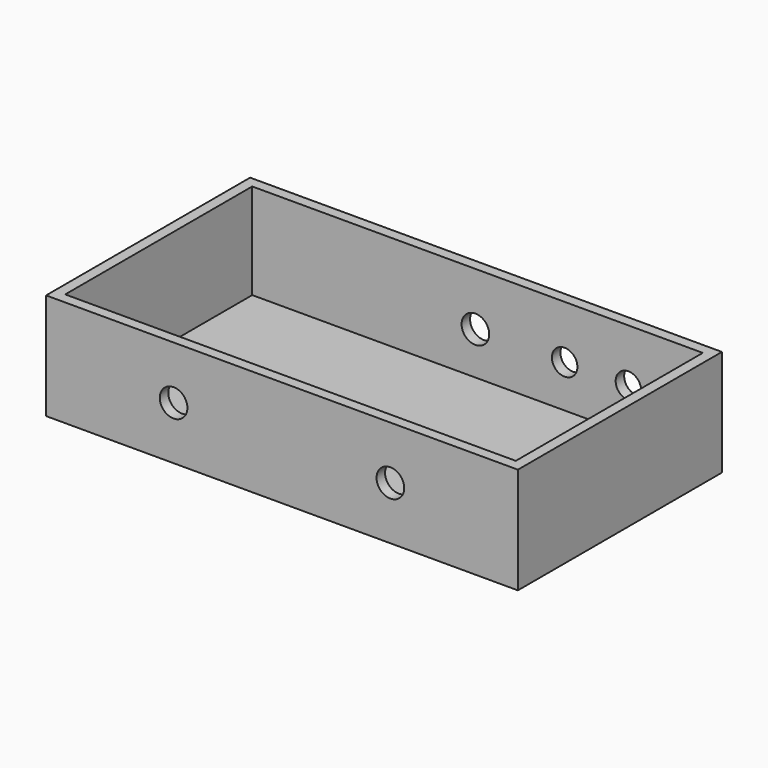
from build123d import *

# Parameters (mm, degrees)
F0_W     = 111
F0_H     = 60
F1_DEPTH = 25
F2_T     = -2.5
F3_R     = 3.25
F4_DEPTH = 30
F5_R     = 3.25
F5_R_2   = 3
F6_DEPTH = 30


with BuildPart() as f1:
    # F0 (on Top) → F1 (new body)
    with BuildSketch(Plane.XY):
        Rectangle(F0_W, F0_H)
    extrude(amount=F1_DEPTH)

    # F2
    f2_openings = [f1.faces().sort_by_distance(p)[0] for p in [
        (0, 0, 25),
    ]]
    offset(amount=F2_T, openings=f2_openings)

    # F3 (on Front) → F4 (cut, through all)
    with BuildSketch(Plane.XZ):
        with Locations((-25.5, 12.5)):
            Circle(F3_R)
        with Locations((25.5, 12.5)):
            Circle(F3_R)
    extrude(amount=F4_DEPTH, mode=Mode.SUBTRACT)

    # F5 (on Front) → F6 (cut, through all)
    with BuildSketch(Plane.XZ):
        with Locations((-0.5, 12.5)):
            Circle(F5_R)
        with Locations((20.5, 12.5)):
            Circle(F5_R_2)
        with Locations((35.5, 12.5)):
            Circle(F5_R_2)
    extrude(amount=-F6_DEPTH, mode=Mode.SUBTRACT)


solid = f1.part
